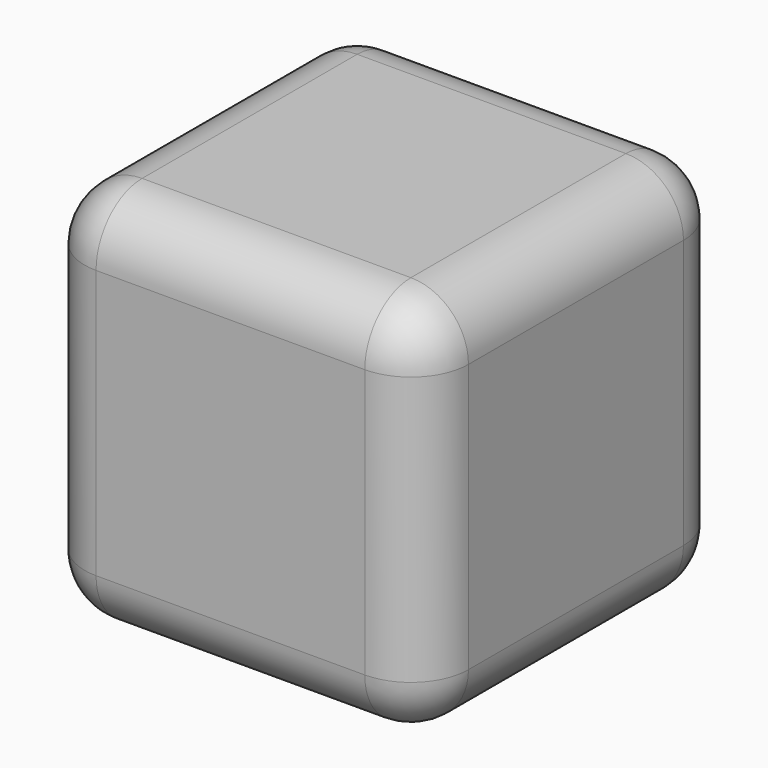
from build123d import *

# Parameters (mm, degrees)
F0_W     = 100
F0_H     = 100
F1_DEPTH = 100
F2_R     = 15
F3_R     = 7.5
F4_DEPTH = 5
F5_R     = 7.5
F5_R_2   = 7.589466
F5_R_3   = 7.712973
F6_DEPTH = 5


with BuildPart() as f1:
    # F0 (on Top) → F1 (new body)
    with BuildSketch(Plane.XY):
        with Locations((2.459805, 0.276836)):
            Rectangle(F0_W, F0_H)
    extrude(amount=F1_DEPTH)

    # F2
    f2_edges = [f1.edges().sort_by_distance(p)[0] for p in [
        (2.459805, 50.276836, 0),
        (-47.540195, 50.276836, 50),
        (2.459805, 50.276836, 100),
        (52.459805, 50.276836, 50),
        (-47.540195, 0.276836, 0),
        (2.459805, -49.723164, 0),
        (52.459805, 0.276836, 0),
        (-47.540195, -49.723164, 50),
        (-47.540195, 0.276836, 100),
        (52.459805, 0.276836, 100),
        (52.459805, -49.723164, 50),
        (2.459805, -49.723164, 100),
    ]]
    fillet(f2_edges, radius=F2_R)

    # F3 (on face) → F4 (cut)
    with BuildSketch(Plane(origin=(0, 50.276836, 0), x_dir=(-1, 0, 0), z_dir=(0, 1, 0))):
        with Locations((-2.459805, 50)):
            Circle(F3_R)
    extrude(amount=-F4_DEPTH, mode=Mode.SUBTRACT)

    # F5 (on face) → F6 (cut)
    with BuildSketch(Plane(origin=(0, 0, 0), x_dir=(1, 0, 0), z_dir=(0, 0, -1))):
        with Locations((14.340434, -13.589303)):
            Circle(F5_R)
        with Locations((-10.799815, -12.571245)):
            Circle(F5_R_2)
        with Locations((14.473066, 12.134452)):
            Circle(F5_R_3)
        with Locations((-11.385111, 10.983491)):
            Circle(F5_R)
    extrude(amount=-F6_DEPTH, mode=Mode.SUBTRACT)


solid = f1.part
